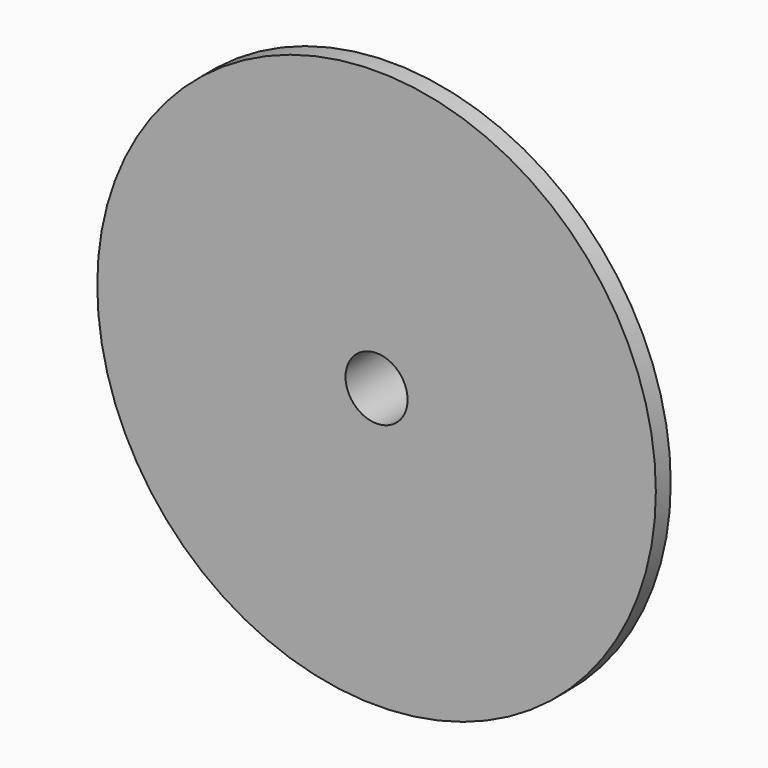
from build123d import *


with BuildPart() as f1:
    # F0 (on Top) → F1 (revolve)
    with BuildSketch(Plane.XY):
        with BuildLine():
            ThreePointArc((-10.16, 37.930929), (-30.254136, 16.125486), (-57.15, 3.640929))
            Line((-57.15, 3.640929), (-57.15, -0.169071))
            Line((-57.15, -0.169071), (-6.35, -0.169071))
            Line((-6.35, -0.169071), (-6.35, 37.930929))
            Line((-6.35, 37.930929), (-10.16, 37.930929))
        make_face()
    revolve(axis=Axis((0, 14.589272, 0), (0, -1, 0)))


solid = f1.part
